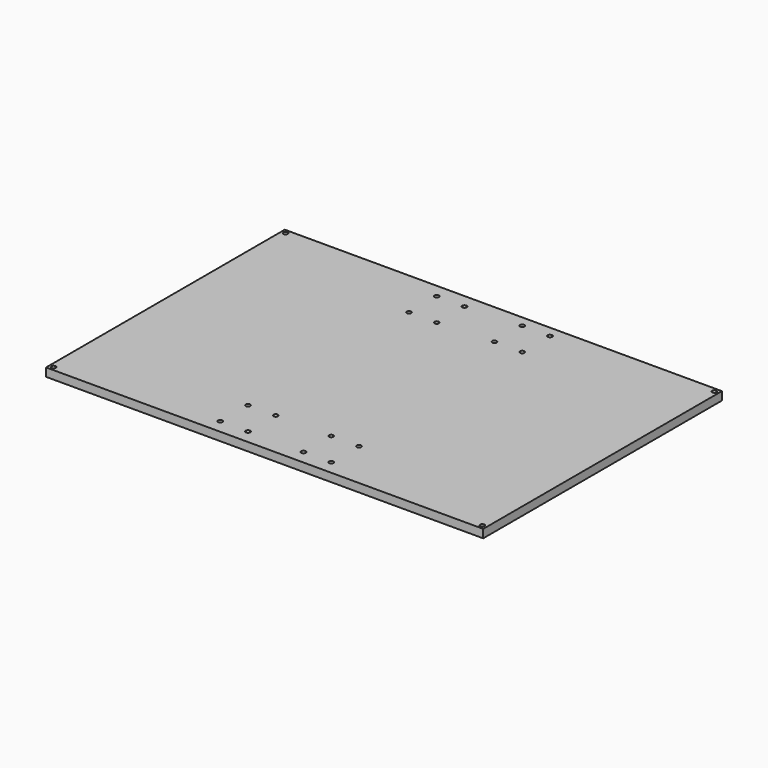
from build123d import *

# Parameters (mm, degrees)
F0_W     = 315
F0_H     = 215
F0_R     = 1.6
F1_DEPTH = 6


with BuildPart() as f1:
    # F0 (on Top) → F1 (new body)
    with BuildSketch(Plane.XY):
        Rectangle(F0_W, F0_H)
        with Locations((-154.5, -104.5)):
            Circle(F0_R, mode=Mode.SUBTRACT)
        with Locations((-40, -97.5)):
            Circle(F0_R, mode=Mode.SUBTRACT)
        with Locations((-20, -97.5)):
            Circle(F0_R, mode=Mode.SUBTRACT)
        with Locations((-40, -72.5)):
            Circle(F0_R, mode=Mode.SUBTRACT)
        with Locations((-20, -72.5)):
            Circle(F0_R, mode=Mode.SUBTRACT)
        with Locations((20, -97.5)):
            Circle(F0_R, mode=Mode.SUBTRACT)
        with Locations((40, -97.5)):
            Circle(F0_R, mode=Mode.SUBTRACT)
        with Locations((20, -72.5)):
            Circle(F0_R, mode=Mode.SUBTRACT)
        with Locations((40, -72.5)):
            Circle(F0_R, mode=Mode.SUBTRACT)
        with Locations((154.5, -104.5)):
            Circle(F0_R, mode=Mode.SUBTRACT)
        with Locations((-154.5, 104.5)):
            Circle(F0_R, mode=Mode.SUBTRACT)
        with Locations((-40, 72.5)):
            Circle(F0_R, mode=Mode.SUBTRACT)
        with Locations((-20, 72.5)):
            Circle(F0_R, mode=Mode.SUBTRACT)
        with Locations((-40, 97.5)):
            Circle(F0_R, mode=Mode.SUBTRACT)
        with Locations((-20, 97.5)):
            Circle(F0_R, mode=Mode.SUBTRACT)
        with Locations((20, 74.5)):
            Circle(F0_R, mode=Mode.SUBTRACT)
        with Locations((40, 74.5)):
            Circle(F0_R, mode=Mode.SUBTRACT)
        with Locations((20, 99.5)):
            Circle(F0_R, mode=Mode.SUBTRACT)
        with Locations((40, 99.5)):
            Circle(F0_R, mode=Mode.SUBTRACT)
        with Locations((154.5, 104.5)):
            Circle(F0_R, mode=Mode.SUBTRACT)
    extrude(amount=F1_DEPTH)


solid = f1.part
